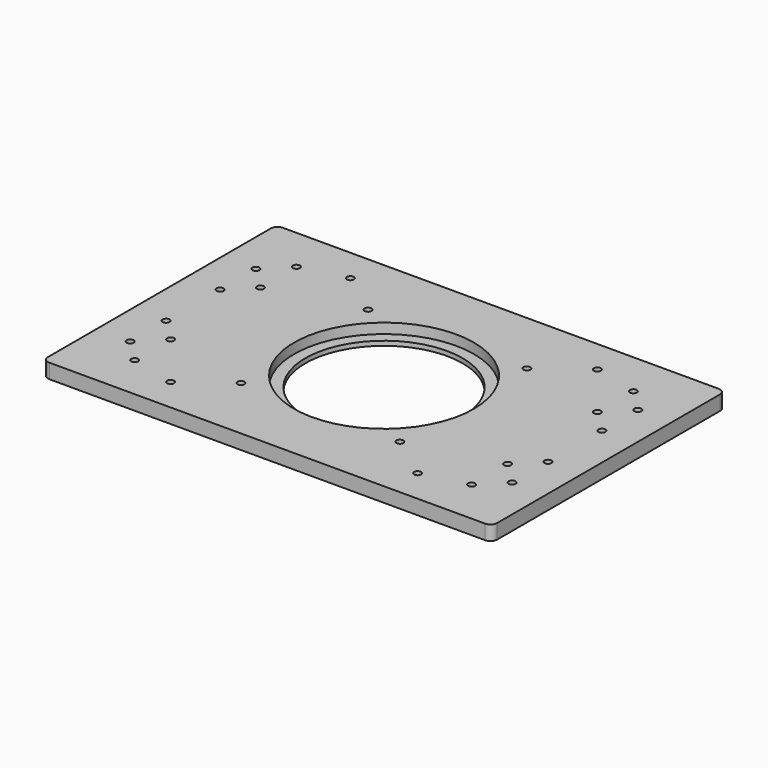
from build123d import *

# Parameters (mm, degrees)
SKETCH_W     = 200
SKETCH_H     = 130
SKETCH_R     = 35
SKETCH_R_2   = 1.5625
PAD_DEPTH    = 6.5
SKETCH001_R  = 40
POCKET_DEPTH = 4.5
FILLET_R     = 3


with BuildPart() as part:
    # Sketch → Pad (new body)
    with BuildSketch(Plane.XY):
        with Locations((100, 65)):
            Rectangle(SKETCH_W, SKETCH_H)
        with Locations((100, 65)):
            Circle(SKETCH_R, mode=Mode.SUBTRACT)
        with Locations((45, 115)):
            Circle(SKETCH_R_2, mode=Mode.SUBTRACT)
        with Locations((45, 15)):
            Circle(SKETCH_R_2, mode=Mode.SUBTRACT)
        with Locations((155, 115)):
            Circle(SKETCH_R_2, mode=Mode.SUBTRACT)
        with Locations((155, 15)):
            Circle(SKETCH_R_2, mode=Mode.SUBTRACT)
        with Locations((185, 30)):
            Circle(SKETCH_R_2, mode=Mode.SUBTRACT)
        with Locations((135.353085, 100.338453)):
            Circle(SKETCH_R_2, mode=Mode.SUBTRACT)
        with Locations((64.627773, 29.642413)):
            Circle(SKETCH_R_2, mode=Mode.SUBTRACT)
        with Locations((64.64463, 100.35537)):
            Circle(SKETCH_R_2, mode=Mode.SUBTRACT)
        with Locations((135.352442, 29.63292)):
            Circle(SKETCH_R_2, mode=Mode.SUBTRACT)
        with Locations((175, 20)):
            Circle(SKETCH_R_2, mode=Mode.SUBTRACT)
        with Locations((175, 40)):
            Circle(SKETCH_R_2, mode=Mode.SUBTRACT)
        with Locations((185, 50)):
            Circle(SKETCH_R_2, mode=Mode.SUBTRACT)
        with Locations((175, 90)):
            Circle(SKETCH_R_2, mode=Mode.SUBTRACT)
        with Locations((175, 110)):
            Circle(SKETCH_R_2, mode=Mode.SUBTRACT)
        with Locations((185, 80)):
            Circle(SKETCH_R_2, mode=Mode.SUBTRACT)
        with Locations((185, 100)):
            Circle(SKETCH_R_2, mode=Mode.SUBTRACT)
        with Locations((15, 30)):
            Circle(SKETCH_R_2, mode=Mode.SUBTRACT)
        with Locations((25, 20)):
            Circle(SKETCH_R_2, mode=Mode.SUBTRACT)
        with Locations((25, 40)):
            Circle(SKETCH_R_2, mode=Mode.SUBTRACT)
        with Locations((15, 50)):
            Circle(SKETCH_R_2, mode=Mode.SUBTRACT)
        with Locations((25, 90)):
            Circle(SKETCH_R_2, mode=Mode.SUBTRACT)
        with Locations((25, 110)):
            Circle(SKETCH_R_2, mode=Mode.SUBTRACT)
        with Locations((15, 80)):
            Circle(SKETCH_R_2, mode=Mode.SUBTRACT)
        with Locations((15, 100)):
            Circle(SKETCH_R_2, mode=Mode.SUBTRACT)
    extrude(amount=PAD_DEPTH)

    # Sketch001 (on Face31 of Pad) → Pocket (cut)
    with BuildSketch(Plane.XY.offset(6.5)):
        with Locations((100, 65)):
            Circle(SKETCH001_R)
    extrude(amount=-POCKET_DEPTH, mode=Mode.SUBTRACT)

    # Fillet
    fillet_edges = [part.edges().sort_by_distance(p)[0] for p in [
        (200, 0, 3.25),
        (200, 130, 3.25),
        (0, 0, 3.25),
        (0, 130, 3.25),
    ]]
    fillet(fillet_edges, radius=FILLET_R)


solid = part.part
